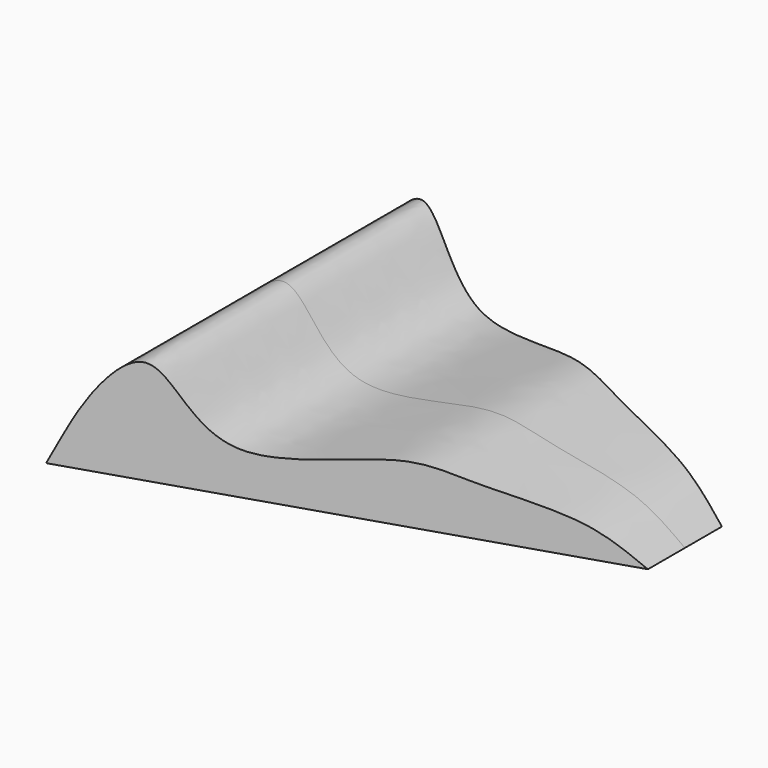
from build123d import *

# Parameters (mm, degrees)
F1_DEPTH = 125
F3_DEPTH = 100


with BuildPart() as f1:
    # F0 (on Front) → F1 (new body, symmetric)
    with BuildSketch(Plane.XZ):
        with BuildLine():
            add(Edge.make_bspline(
                [(-151.71288579, 0), (-144.4843162103, 14.6695163073), (-132.1641213285, 43.0288768856), (-103.9530475901, 72.3909612967), (-85.4689049726, 51.9239626596), (-58.3728459467, 12.5007640904), (25.5918318224, 42.1881438414), (60.4144291041, 29.6215179094), (118.7315086089, 22.4558909569), (138.9879165772, 6.6318475484), (148.28711421, 0)],
                knots=[0, 0, 0, 0, 0.1348079941, 0.2432039061, 0.3299163645, 0.4531783208, 0.6226105085, 0.7424621315, 0.8848422886, 1, 1, 1, 1], degree=3))
            Line((-151.71288579, 0), (148.28711421, 0))
        make_face()
    extrude(amount=F1_DEPTH, both=True)

    # F2 (on face) → F3 (cut)
    with BuildSketch(Plane(origin=(0, 0, 0), x_dir=(1, 0, 0), z_dir=(0, 0, -1))):
        Polygon((148.28711421, 125), (148.28711421, 28.9531364385), (148.28711421, 0), (148.28711421, -28.9531364385), (148.28711421, -125), (-151.71288579, -125), (237.6031726599, -126.9484460354), (237.6031726599, 125), align=None)
        Polygon((148.28711421, -28.9531364385), (-151.71288579, -125), (148.28711421, -125), align=None)
        Polygon((148.28711421, 125), (-151.71288579, 125), (148.28711421, 28.9531364385), align=None)
    extrude(amount=-F3_DEPTH, mode=Mode.SUBTRACT)


solid = f1.part
